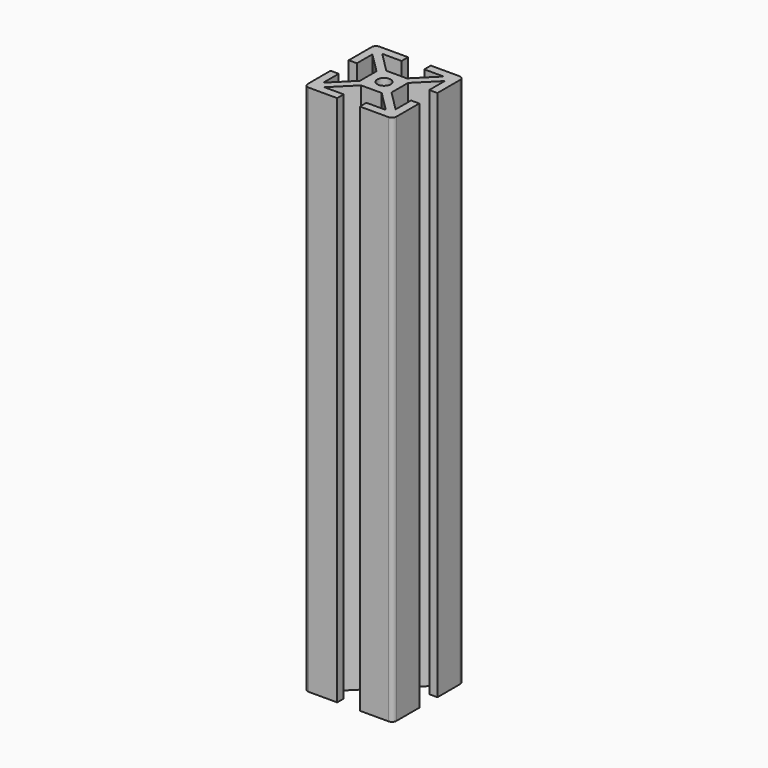
from build123d import *

# Parameters (mm, degrees)
F0_R     = 1.905
F1_DEPTH = 152.4
F2_R     = 1.27


with BuildPart() as f1:
    # F0 (on Top) → F1 (new body)
    with BuildSketch(Plane.XY):
        Polygon((-12.7, -3.2512), (-12.7, -12.7), (-3.2512, -12.7), (-3.2512, -10.3632), (-8.800635, -10.3632), (-2.958635, -4.5212), (2.958635, -4.5212), (8.800635, -10.3632), (3.2512, -10.3632), (3.2512, -12.7), (12.7, -12.7), (12.7, -3.2512), (10.3632, -3.2512), (10.3632, -8.800635), (4.5212, -2.958635), (4.5212, 2.958635), (10.3632, 8.800635), (10.3632, 3.2512), (12.7, 3.2512), (12.7, 12.7), (3.2512, 12.7), (3.2512, 10.3632), (8.800635, 10.3632), (2.958635, 4.5212), (-2.958635, 4.5212), (-8.800635, 10.3632), (-3.2512, 10.3632), (-3.2512, 12.7), (-12.7, 12.7), (-12.7, 3.2512), (-10.3632, 3.2512), (-10.3632, 8.800635), (-4.5212, 2.958635), (-4.5212, -2.958635), (-10.3632, -8.800635), (-10.3632, -3.2512), align=None)
        Circle(F0_R, mode=Mode.SUBTRACT)
    extrude(amount=F1_DEPTH)

    # F2
    f2_edges = [f1.edges().sort_by_distance(p)[0] for p in [
        (-12.7, 12.7, 76.2),
        (12.7, 12.7, 76.2),
        (12.7, -12.7, 76.2),
        (-12.7, -12.7, 76.2),
    ]]
    fillet(f2_edges, radius=F2_R)


solid = f1.part
